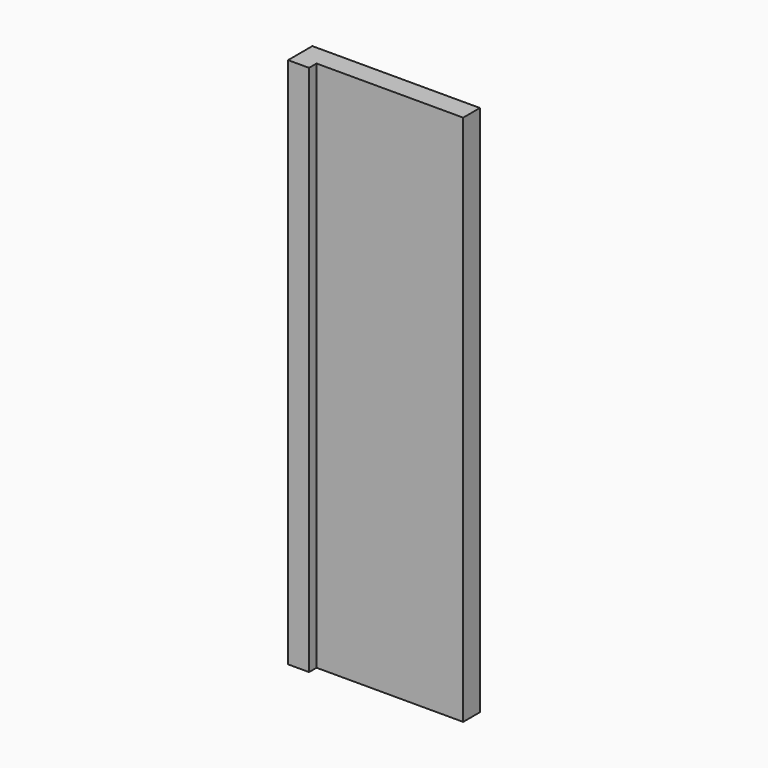
from build123d import *

# Parameters (mm, degrees)
F0_W     = 5
F0_H     = 2.25
F0_H_2   = 5
F0_W_2   = 35
F1_DEPTH = 127


with BuildPart() as f1:
    # F0 (on Top) → F1 (new body)
    with BuildSketch(Plane.XY):
        with Locations((-2.5, -1.125)):
            Rectangle(F0_W, F0_H)
        with Locations((-2.5, 2.5)):
            Rectangle(F0_W, F0_H_2)
        with Locations((17.5, 2.5)):
            Rectangle(F0_W_2, F0_H_2)
    extrude(amount=F1_DEPTH)


solid = f1.part
